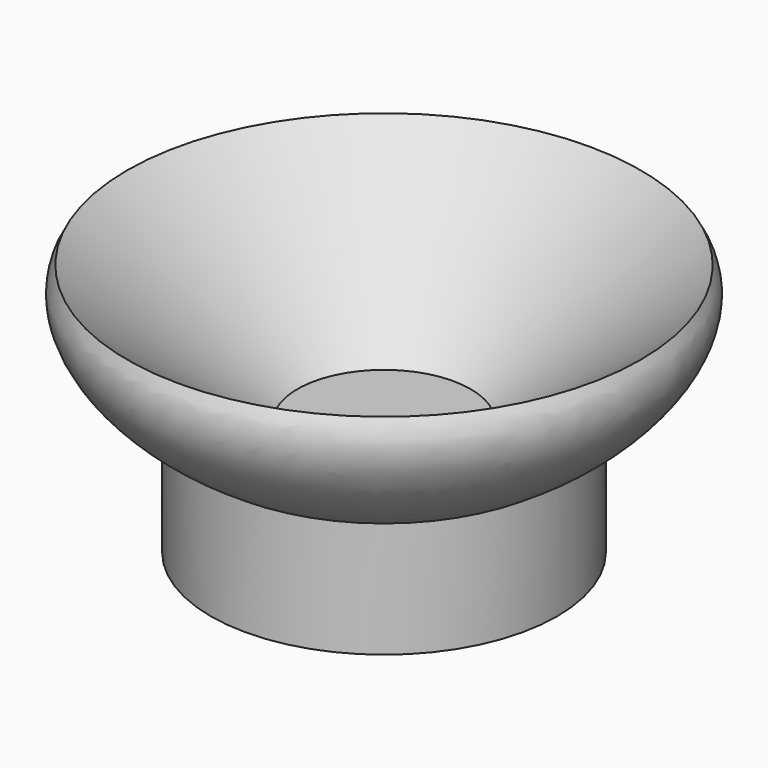
from build123d import *


with BuildPart() as f1:
    # F0 (on Front) → F1 (revolve)
    with BuildSketch(Plane.XZ):
        with BuildLine():
            Line((0, 50.8), (0, 0))
            Line((0, 0), (76.2, 0))
            Line((76.2, 0), (76.2, 50.8))
            add(Edge.make_bspline(
                [(76.2, 50.8), (130.5127577195, 84.0082843245), (112.8858645493, 111.2104510093)],
                knots=[5.0242246925, 5.0242246925, 5.0242246925, 6.3716277614, 6.3716277614, 6.3716277614], degree=2, weights=[1, 0.7815177004, 1]))
            Line((112.8858645493, 111.2104510093), (38.1, 50.8))
            Line((38.1, 50.8), (0, 50.8))
        make_face()
    revolve(axis=Axis((0, 0, 25.4), (0, 0, 1)))


solid = f1.part
